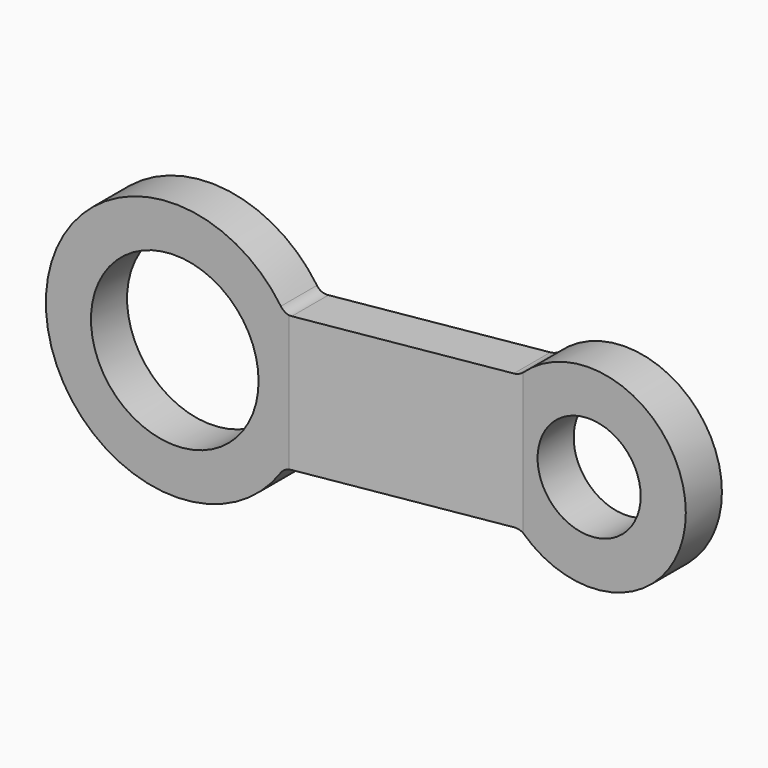
from build123d import *

# Parameters (mm, degrees)
F0_R     = 33.02
F0_R_2   = 20.32
F1_DEPTH = 50.8
F3_DEPTH = 50.8
F4_R     = 5.08
F5_R     = 5.08
F6_R     = 5.08
F7_R     = 5.08


with BuildPart() as f1:
    # F0 (on Front) → F1 (new body)
    with BuildSketch(Plane.XZ):
        with BuildLine():
            ThreePointArc((43.2359931076, -26.67), (48.8724280646, -13.8609442343), (50.8, 0))
            ThreePointArc((50.8, 0), (48.8724280646, 13.8609442343), (43.2359931076, 26.67))
            ThreePointArc((43.2359931076, 26.67), (-50.8, 0), (43.2359931076, -26.67))
        make_face()
        Circle(F0_R, mode=Mode.SUBTRACT)
        with BuildLine():
            ThreePointArc((43.2359931076, 26.67), (48.8724280646, 13.8609442343), (50.8, 0))
            ThreePointArc((50.8, 0), (48.8724280646, -13.8609442343), (43.2359931076, -26.67))
            Line((43.2359931076, -26.67), (125.1911576873, -26.67))
            ThreePointArc((125.1911576873, -26.67), (114.3, 0), (125.1911576873, 26.67))
            Line((125.1911576873, 26.67), (43.2359931076, 26.67))
        make_face()
        with BuildLine():
            ThreePointArc((190.5, 0), (166.8040464433, 35.2722758843), (125.1911576873, 26.67))
            ThreePointArc((125.1911576873, 26.67), (114.3, 0), (125.1911576873, -26.67))
            ThreePointArc((125.1911576873, -26.67), (166.8040464433, -35.2722758843), (190.5, 0))
        make_face()
        with Locations((152.4, 0)):
            Circle(F0_R_2, mode=Mode.SUBTRACT)
    extrude(amount=F1_DEPTH)

    # F2 (on Top) → F3 (intersect, symmetric)
    with BuildSketch(Plane.XY):
        Polygon((213.7089745641, -17.78), (213.7089745641, 0), (124.8089745641, 0), (43.4407666326, -13.5890487581), (-83.5592333674, -13.5890487581), (-83.5592333674, -31.3690487581), (44.915247018, -31.3690487581), (126.2834549495, -17.78), align=None)
    extrude(amount=F3_DEPTH, both=True, mode=Mode.INTERSECT)

    # F4
    f4_edges = [f1.edges().sort_by_distance(p)[0] for p in [
        (43.235993, -22.479049, 26.67),
    ]]
    fillet(f4_edges, radius=F4_R)

    # F5
    f5_edges = [f1.edges().sort_by_distance(p)[0] for p in [
        (125.191158, -8.981211, 26.67),
    ]]
    fillet(f5_edges, radius=F5_R)

    # F6
    f6_edges = [f1.edges().sort_by_distance(p)[0] for p in [
        (43.235993, -22.479049, -26.67),
    ]]
    fillet(f6_edges, radius=F6_R)

    # F7
    f7_edges = [f1.edges().sort_by_distance(p)[0] for p in [
        (125.191158, -8.981211, -26.67),
    ]]
    fillet(f7_edges, radius=F7_R)


solid = f1.part
